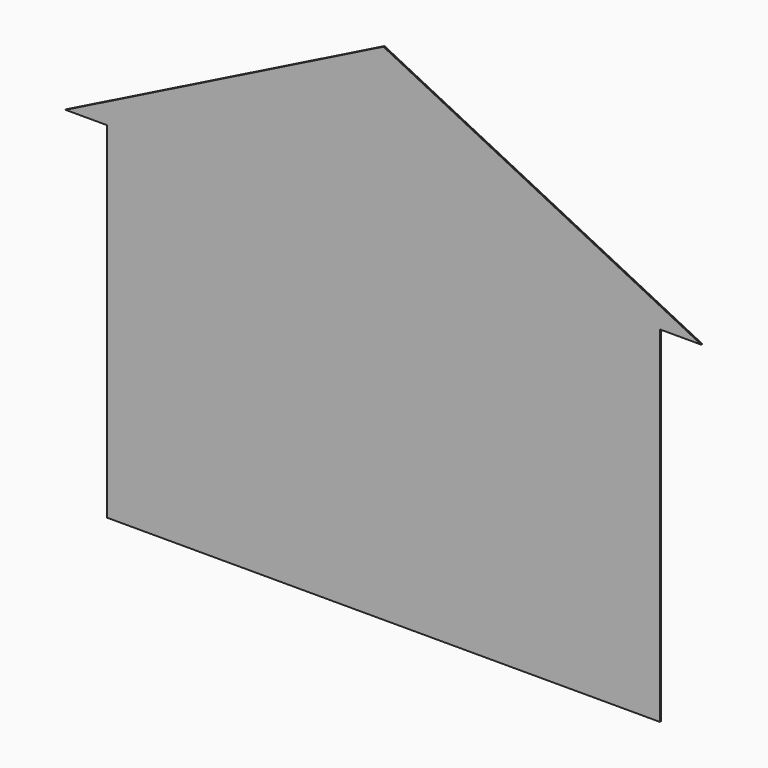
from build123d import *

# Parameters (mm, degrees)
F1_DEPTH = 30.48


with BuildPart() as f1:
    # F0 (on Front) → F1 (new body)
    with BuildSketch(Plane.XZ):
        Polygon((6096, 0), (0, 0), (-6096, 0), (-6096, -7315.2), (-457.2, -7315.2), (-457.2, -5181.6), (457.2, -5181.6), (457.2, -7315.2), (6096, -7315.2), align=None)
        Polygon((-7010.4, 0), (-6096, 0), (0, 3048), (0, 3505.2), align=None)
        Polygon((0, 3048), (6096, 0), (7010.4, 0), (0, 3505.2), align=None)
        Polygon((0, 3048), (0, 0), (6096, 0), align=None)
        Polygon((-6096, 0), (0, 0), (0, 3048), align=None)
        Polygon((-457.2, -5181.6), (-457.2, -7315.2), (0, -7315.2), (457.2, -7315.2), (457.2, -5181.6), align=None)
        Polygon((-457.2, -7315.2), (-6096, -7315.2), (-6096, -7620), (6096, -7620), (6096, -7315.2), (457.2, -7315.2), (0, -7315.2), align=None)
    extrude(amount=F1_DEPTH)


solid = f1.part
